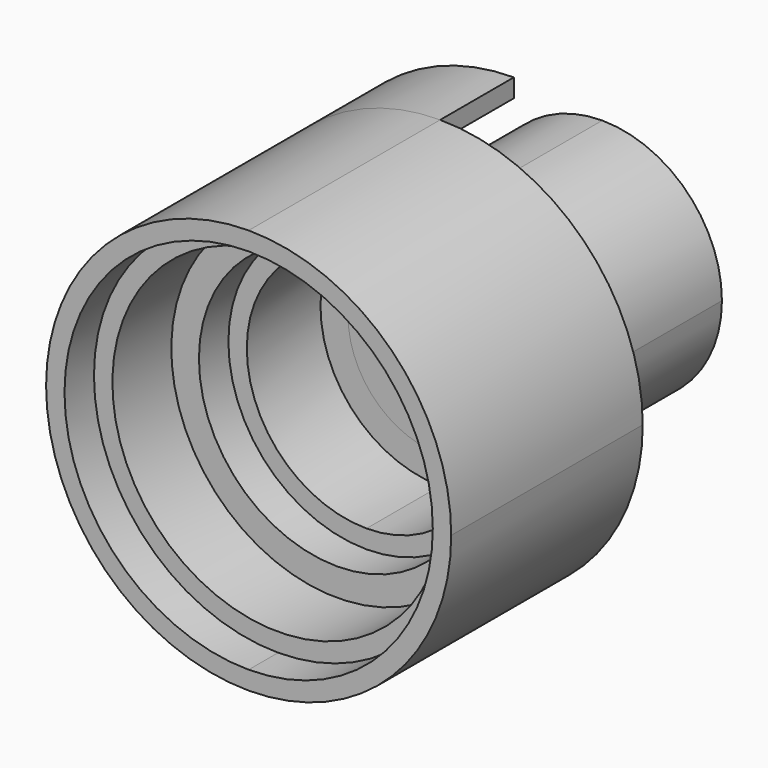
from build123d import *

# Parameters (mm, degrees)
F1_DEPTH = 35
F2_DEPTH = 45
F3_DEPTH = 55
F4_DEPTH = 25
F5_DEPTH = 35
F6_DEPTH = 55
F7_DEPTH = 65
F8_DEPTH = 25


with BuildPart() as f1:
    # F0 (on Front) → F1 (new body)
    with BuildSketch(Plane.XZ):
        with BuildLine():
            Line((0, 7.5), (0, 10))
            ThreePointArc((0, 10), (-10, 0), (0, -10))
            Line((0, -10), (0, -7.5))
            ThreePointArc((0, -7.5), (-7.5, 0), (0, 7.5))
        make_face()
        with BuildLine():
            ThreePointArc((10, 0), (7.0710678119, 7.0710678119), (0, 10))
            Line((0, 10), (0, 7.5))
            ThreePointArc((0, 7.5), (5.3033008589, 5.3033008589), (7.5, 0))
            ThreePointArc((7.5, 0), (5.3033008589, -5.3033008589), (0, -7.5))
            Line((0, -7.5), (0, -10))
            ThreePointArc((0, -10), (7.0710678119, -7.0710678119), (10, 0))
        make_face()
    extrude(amount=-F1_DEPTH)

    # F0 (on Front) → F2 (join)
    with BuildSketch(Plane.XZ):
        with BuildLine():
            Line((0, 10), (0, 25))
            ThreePointArc((0, 25), (-25, 0), (0, -25))
            Line((0, -25), (0, -10))
            ThreePointArc((0, -10), (-10, 0), (0, 10))
        make_face()
        with BuildLine():
            ThreePointArc((25, 0), (17.6776695297, 17.6776695297), (0, 25))
            Line((0, 25), (0, 10))
            ThreePointArc((0, 10), (7.0710678119, 7.0710678119), (10, 0))
            ThreePointArc((10, 0), (7.0710678119, -7.0710678119), (0, -10))
            Line((0, -10), (0, -25))
            ThreePointArc((0, -25), (17.6776695297, -17.6776695297), (25, 0))
        make_face()
    extrude(amount=-F2_DEPTH)


with BuildPart() as f3:
    # F0 (on Front) → F3 (new body)
    with BuildSketch(Plane.XZ):
        with BuildLine():
            Line((0, 25), (0, 32.5))
            ThreePointArc((0, 32.5), (-32.5, 0), (0, -32.5))
            Line((0, -32.5), (0, -25))
            ThreePointArc((0, -25), (-25, 0), (0, 25))
        make_face()
        with BuildLine():
            ThreePointArc((32.5, 0), (22.9809703886, 22.9809703886), (0, 32.5))
            Line((0, 32.5), (0, 25))
            ThreePointArc((0, 25), (17.6776695297, 17.6776695297), (25, 0))
            ThreePointArc((25, 0), (17.6776695297, -17.6776695297), (0, -25))
            Line((0, -25), (0, -32.5))
            ThreePointArc((0, -32.5), (22.9809703886, -22.9809703886), (32.5, 0))
        make_face()
    extrude(amount=-F3_DEPTH)


with BuildPart() as f4:
    # F0 (on Front) → F4 (new body)
    with BuildSketch(Plane.XZ):
        with BuildLine():
            Line((0, 32.5), (0, 37.5))
            ThreePointArc((0, 37.5), (-37.5, 0), (0, -37.5))
            Line((0, -37.5), (0, -32.5))
            ThreePointArc((0, -32.5), (-32.5, 0), (0, 32.5))
        make_face()
        with BuildLine():
            ThreePointArc((37.5, 0), (26.5165042945, 26.5165042945), (0, 37.5))
            Line((0, 37.5), (0, 32.5))
            ThreePointArc((0, 32.5), (22.9809703886, 22.9809703886), (32.5, 0))
            ThreePointArc((32.5, 0), (22.9809703886, -22.9809703886), (0, -32.5))
            Line((0, -32.5), (0, -37.5))
            ThreePointArc((0, -37.5), (26.5165042945, -26.5165042945), (37.5, 0))
        make_face()
    extrude(amount=F4_DEPTH)

    # F0 (on Front) → F5 (join)
    with BuildSketch(Plane.XZ):
        with BuildLine():
            Line((0, 37.5), (0, 45))
            ThreePointArc((0, 45), (-45, 0), (0, -45))
            Line((0, -45), (0, -37.5))
            ThreePointArc((0, -37.5), (-37.5, 0), (0, 37.5))
        make_face()
        with BuildLine():
            ThreePointArc((45, 0), (31.8198051534, 31.8198051534), (0, 45))
            Line((0, 45), (0, 37.5))
            ThreePointArc((0, 37.5), (26.5165042945, 26.5165042945), (37.5, 0))
            ThreePointArc((37.5, 0), (26.5165042945, -26.5165042945), (0, -37.5))
            Line((0, -37.5), (0, -45))
            ThreePointArc((0, -45), (31.8198051534, -31.8198051534), (45, 0))
        make_face()
    extrude(amount=F5_DEPTH)

    # F0 (on Front) → F6 (join)
    with BuildSketch(Plane.XZ):
        with BuildLine():
            Line((0, 45), (0, 50))
            ThreePointArc((0, 50), (-50, 0), (0, -50))
            Line((0, -50), (0, -45))
            ThreePointArc((0, -45), (-45, 0), (0, 45))
        make_face()
        with BuildLine():
            ThreePointArc((50, 0), (35.3553390593, 35.3553390593), (0, 50))
            Line((0, 50), (0, 45))
            ThreePointArc((0, 45), (31.8198051534, 31.8198051534), (45, 0))
            ThreePointArc((45, 0), (31.8198051534, -31.8198051534), (0, -45))
            Line((0, -45), (0, -50))
            ThreePointArc((0, -50), (35.3553390593, -35.3553390593), (50, 0))
        make_face()
    extrude(amount=F6_DEPTH)

    # F0 (on Front) → F7 (join)
    with BuildSketch(Plane.XZ):
        with BuildLine():
            Line((0, 50), (0, 55))
            ThreePointArc((0, 55), (-55, 0), (0, -55))
            Line((0, -55), (0, -50))
            ThreePointArc((0, -50), (-50, 0), (0, 50))
        make_face()
        with BuildLine():
            ThreePointArc((0, -55), (38.8908729653, -38.8908729653), (55, 0))
            ThreePointArc((55, 0), (38.8908729653, 38.8908729653), (0, 55))
            Line((0, 55), (0, 50))
            ThreePointArc((0, 50), (35.3553390593, 35.3553390593), (50, 0))
            ThreePointArc((50, 0), (35.3553390593, -35.3553390593), (0, -50))
            Line((0, -50), (0, -55))
        make_face()
    extrude(amount=F7_DEPTH)

    # F0 (on Front) → F8 (join)
    with BuildSketch(Plane.XZ):
        with BuildLine():
            Line((0, 50), (0, 55))
            ThreePointArc((0, 55), (-55, 0), (0, -55))
            Line((0, -55), (0, -50))
            ThreePointArc((0, -50), (-50, 0), (0, 50))
        make_face()
    extrude(amount=-F8_DEPTH)


solid = Compound([f1.part, f3.part, f4.part])
